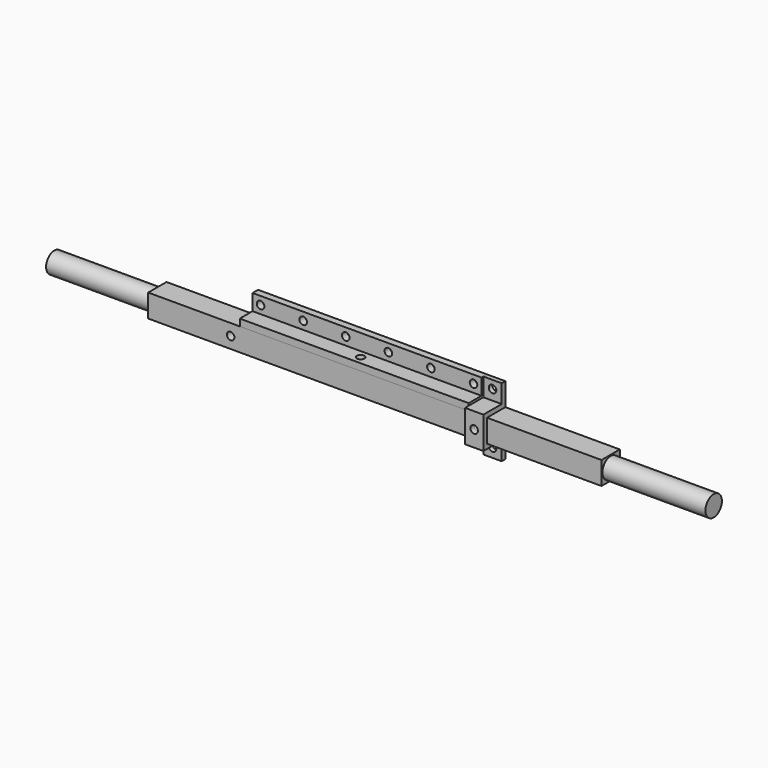
from build123d import *

# Parameters (mm, degrees)
F1_DEPTH       = 50
F1_DEPTH_BACK  = 50
F2_W           = 10
F2_H           = 10
F3_DEPTH       = 108
F3_DEPTH_BACK  = 90
F4_R           = 4.5
F5_DEPTH       = 45
F6_R           = 4.5
F7_DEPTH       = 45
F9_DEPTH       = 8
F13_D          = 3.3
F13_2_D        = 3.3
F13_3_D        = 3.3
F13_ON_F12_D   = 3.3
F13_ON_F12_2_D = 3.3


with BuildPart() as f1:
    # F0 (on Right) → F1 (new body, two sides)
    with BuildSketch(Plane.YZ) as f1_sk:
        Polygon((0, 0), (0, 10), (-3, 10), (-3, 3), (-10, 3), (-10, 0), align=None)
    extrude(amount=F1_DEPTH)
    extrude(f1_sk.sketch, amount=-F1_DEPTH_BACK)

    # F13 (through all)
    with Locations(Plane.XZ.offset(12)):
        with Locations((-46.5, 6.5), (-27.9, 6.5), (-9.3, 6.5), (9.3, 6.5), (27.9, 6.5), (46.5, 6.5), (54, 6.5), (54, -5), (54, -16), (-54, -5)):
            Hole(F13_D / 2)

    # F13 on F12 (through all)
    with Locations(Plane.XY.offset(3)):
        with Locations((0, -6.5)):
            Hole(F13_ON_F12_D / 2)


with BuildPart() as f3:
    # F2 (on Right) → F3 (new body, two sides)
    with BuildSketch(Plane.YZ) as f3_sk:
        with Locations((-5, -5)):
            Rectangle(F2_W, F2_H)
    extrude(amount=F3_DEPTH)
    extrude(f3_sk.sketch, amount=-F3_DEPTH_BACK)

    # F4 (on face) → F5 (join)
    with BuildSketch(Plane.YZ.offset(108)):
        with Locations((-5, -5)):
            Circle(F4_R)
    extrude(amount=F5_DEPTH)

    # F6 (on face) → F7 (join)
    with BuildSketch(Plane(origin=(-90, 0, 0), x_dir=(0, -1, 0), z_dir=(-1, 0, 0))):
        with Locations((5, -5)):
            Circle(F6_R)
    extrude(amount=F7_DEPTH)

    # F13#2 (through all)
    with Locations(Plane.XZ.offset(12)):
        with Locations((-46.5, 6.5), (-27.9, 6.5), (-9.3, 6.5), (9.3, 6.5), (27.9, 6.5), (46.5, 6.5), (54, 6.5), (54, -5), (54, -16), (-54, -5)):
            Hole(F13_2_D / 2)

    # F13 on F12#2 (through all)
    with Locations(Plane.XY.offset(3)):
        with Locations((0, -6.5)):
            Hole(F13_ON_F12_2_D / 2)


with BuildPart() as f9:
    # F8 (on Right) → F9 (new body)
    with BuildSketch(Plane.YZ):
        Polygon((0, 0), (0, 10), (-2, 10), (-2, 2), (-12, 2), (-12, -5), (-12, -12), (-2, -12), (-2, -20), (0, -20), (0, -10), (-10, -10), (-10, -5), (-10, 0), align=None)
    extrude(amount=F9_DEPTH)


with BuildPart() as f9_1:
    # F10: moved
    add(f9.part.moved(Location((50, 0, 0))))

    # F13#3 (through all)
    with Locations(Plane.XZ.offset(12)):
        with Locations((-46.5, 6.5), (-27.9, 6.5), (-9.3, 6.5), (9.3, 6.5), (27.9, 6.5), (46.5, 6.5), (54, 6.5), (54, -5), (54, -16), (-54, -5)):
            Hole(F13_3_D / 2)


solid = Compound([f1.part, f3.part, f9_1.part])
